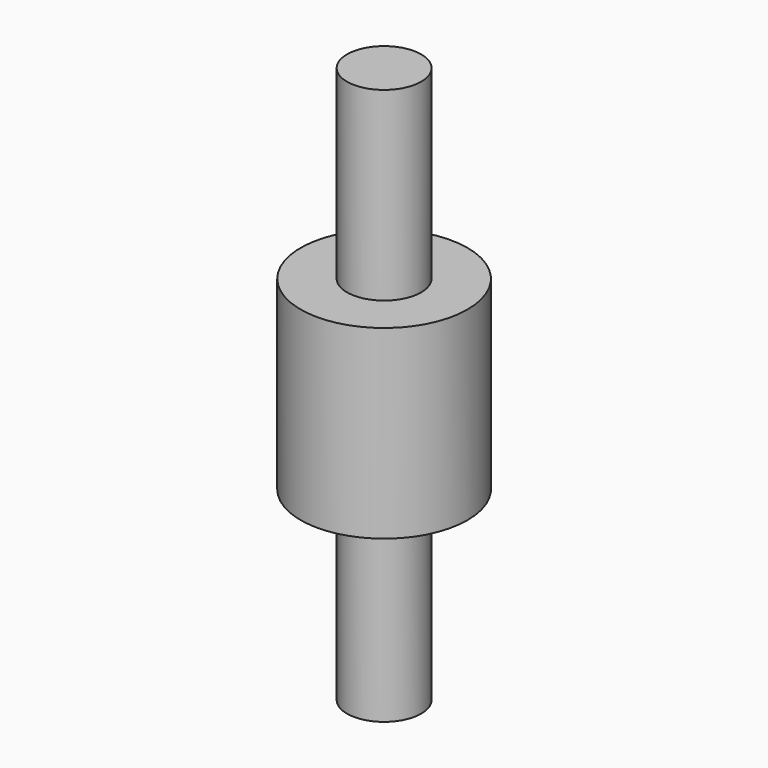
from build123d import *

# Parameters (mm, degrees)
CYLINDER001_R     = 4.5
CYLINDER001_DEPTH = 10
CYLINDER_R        = 2
CYLINDER_DEPTH    = 30


with BuildPart() as cylinder001:
    # Cylinder001 → Cylinder001 (new body)
    with BuildSketch(Plane(origin=(0, 10, 5), x_dir=(1, 0, 0), z_dir=(0, 0, 1))):
        Circle(CYLINDER001_R)
    extrude(amount=CYLINDER001_DEPTH)


with BuildPart() as fusion:
    # Cylinder → Cylinder (new body)
    with BuildSketch(Plane(origin=(0, 10, -5), x_dir=(1, 0, 0), z_dir=(0, 0, 1))):
        Circle(CYLINDER_R)
    extrude(amount=CYLINDER_DEPTH)

    # Fusion: union Cylinder001
    add(cylinder001.part)


solid = fusion.part
